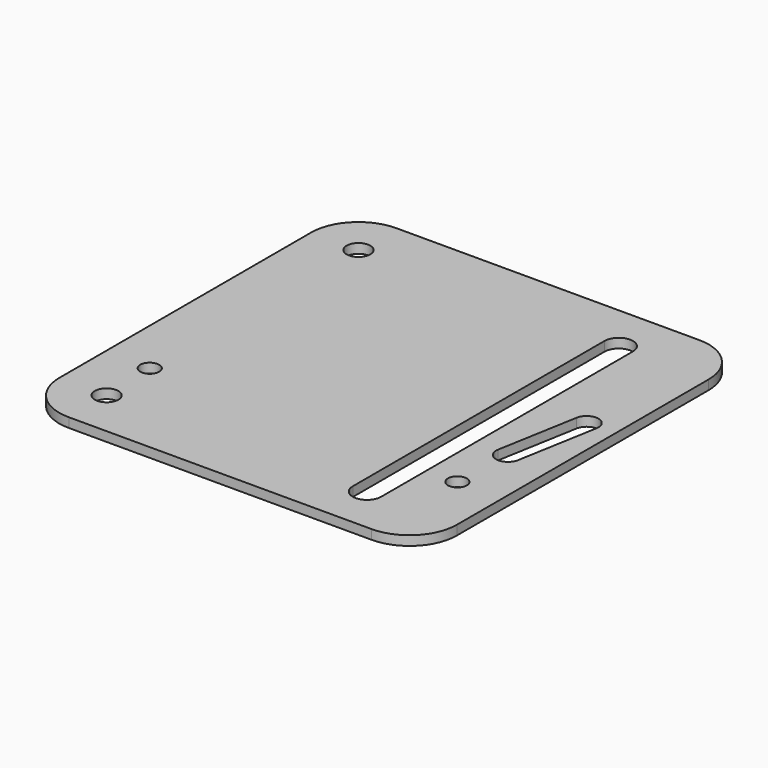
from build123d import *

# Parameters (mm, degrees)
F0_R     = 2.5
F0_R_2   = 2
F1_DEPTH = 2


with BuildPart() as f1:
    # F0 (on Top) → F1 (new body)
    with BuildSketch(Plane.XY):
        with BuildLine():
            Line((28.394605, 56.648372), (-35.605395, 56.648372))
            ThreePointArc((-35.605395, 56.648372), (-42.676463, 53.71944), (-45.605395, 46.648372))
            Line((-45.605395, 46.648372), (-45.605395, -19.851628))
            ThreePointArc((-45.605395, -19.851628), (-42.676463, -26.922696), (-35.605395, -29.851628))
            Line((-35.605395, -29.851628), (28.394605, -29.851628))
            ThreePointArc((28.394605, -29.851628), (35.465673, -26.922696), (38.394605, -19.851628))
            Line((38.394605, -19.851628), (38.394605, 46.648372))
            ThreePointArc((38.394605, 46.648372), (35.465673, 53.71944), (28.394605, 56.648372))
        make_face()
        with Locations((-35.605395, -19.851628)):
            Circle(F0_R, mode=Mode.SUBTRACT)
        with Locations((-36.105395, -7.851628)):
            Circle(F0_R_2, mode=Mode.SUBTRACT)
        with Locations((28.894605, -7.851628)):
            Circle(F0_R_2, mode=Mode.SUBTRACT)
        with Locations((-35.605395, 46.648372)):
            Circle(F0_R, mode=Mode.SUBTRACT)
        with BuildLine():
            Line((16.394605, -19.851628), (16.394605, 46.648372))
            ThreePointArc((16.394605, 46.648372), (19.394605, 49.648372), (22.394605, 46.648372))
            Line((22.394605, 46.648372), (22.394605, -19.851628))
            ThreePointArc((22.394605, -19.851628), (19.394605, -22.851628), (16.394605, -19.851628))
        make_face(mode=Mode.SUBTRACT)
        with BuildLine():
            Line((34.856625, 21.471174), (31.856625, 4.457329))
            ThreePointArc((31.856625, 4.457329), (28.960485, 2.42943), (26.932586, 5.32557))
            Line((26.932586, 5.32557), (29.932586, 22.339415))
            ThreePointArc((29.932586, 22.339415), (32.828726, 24.367314), (34.856625, 21.471174))
        make_face(mode=Mode.SUBTRACT)
    extrude(amount=F1_DEPTH)


solid = f1.part
